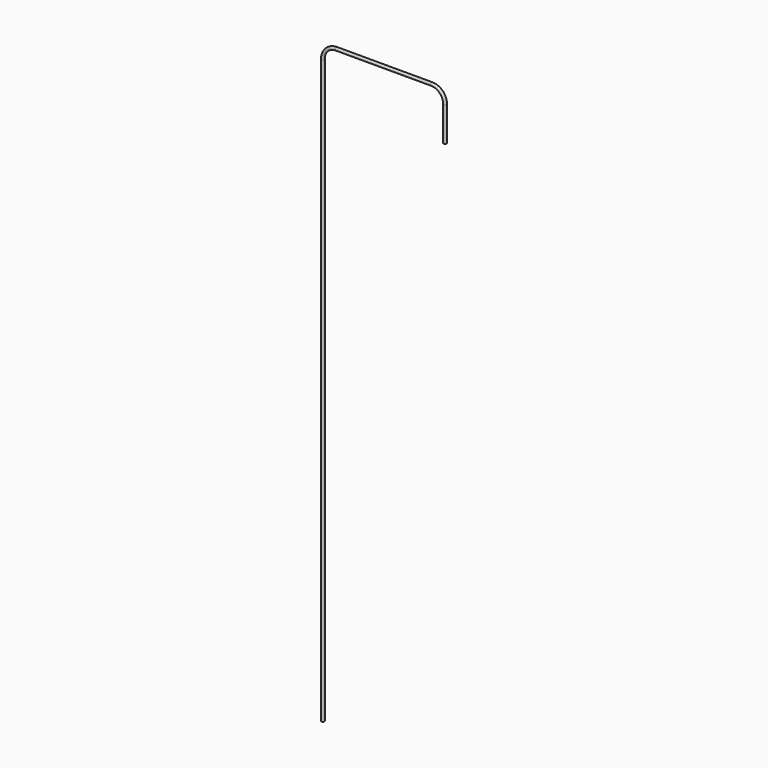
from build123d import *

# Parameters (mm, degrees)
F0_R = 0.125


with BuildPart() as f2:
    # F2: sweep along a path in F1
    with BuildLine(Plane.XZ) as f2_path:
        Line((0, 0), (0, 48.875))
        ThreePointArc((0, 48.875), (0.329505, 49.670495), (1.125, 50))
        Line((1.125, 50), (9.125, 50))
        ThreePointArc((9.125, 50), (9.920495, 49.670495), (10.25, 48.875))
        Line((10.25, 48.875), (10.25, 46))
    # F0 (on Top) → F2 (sweep)
    with BuildSketch(Plane.XY):
        Circle(F0_R)
    sweep(path=f2_path.line)


solid = f2.part
